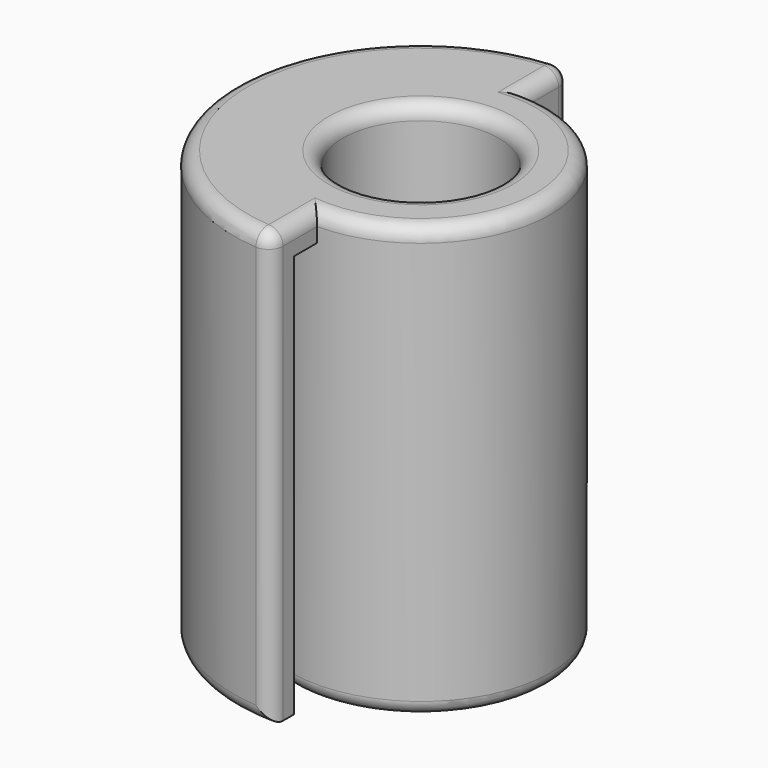
from build123d import *

# Parameters (mm, degrees)
F0_R     = 9
F0_R_2   = 5.4
F1_DEPTH = 30
F3_DEPTH = 2
F4_DEPTH = 30
F5_R     = 1


with BuildPart() as f1:
    # F0 (on Top) → F1 (new body)
    with BuildSketch(Plane.XY):
        Circle(F0_R)
        Circle(F0_R_2, mode=Mode.SUBTRACT)
    extrude(amount=F1_DEPTH)

    # F2 (on face) → F3 (join)
    with BuildSketch(Plane.XY.offset(30)):
        with BuildLine():
            Line((0, 11), (0, 13))
            ThreePointArc((0, 13), (-13, 0), (0, -13))
            Line((0, -13), (0, -11))
            ThreePointArc((0, -11), (-11, 0), (0, 11))
        make_face()
        with BuildLine():
            Line((0, 9), (0, 11))
            ThreePointArc((0, 11), (-11, 0), (0, -11))
            Line((0, -11), (0, -9))
            ThreePointArc((0, -9), (-9, 0), (0, 9))
        make_face()
    extrude(amount=-F3_DEPTH)

    # F2 (on face) → F4 (join)
    with BuildSketch(Plane.XY.offset(30)):
        with BuildLine():
            Line((0, 11), (0, 13))
            ThreePointArc((0, 13), (-13, 0), (0, -13))
            Line((0, -13), (0, -11))
            ThreePointArc((0, -11), (-11, 0), (0, 11))
        make_face()
    extrude(amount=-F4_DEPTH)

    # F5
    f5_edges = [f1.edges().sort_by_distance(p)[0] for p in [
        (-9, 0, 0),
        (-13, 0, 0),
        (-13, 0, 30),
        (0, 13, 15),
        (0, -13, 15),
        (0, -11, 30),
        (0, 11, 30),
        (6.363961, -6.363961, 30),
        (6.363961, 6.363961, 30),
        (-5.4, 0, 30),
        (-5.4, 0, 0),
    ]]
    fillet(f5_edges, radius=F5_R)


solid = f1.part
